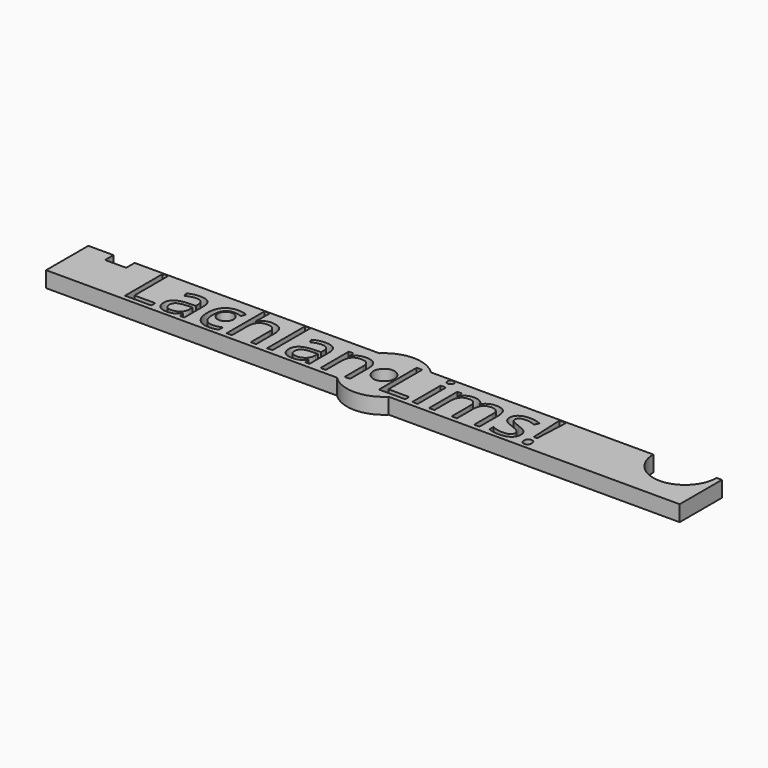
from build123d import *

# Parameters (mm, degrees)
F0_R     = 2
F0_R_2   = 1.5
F1_DEPTH = 3
F2_W     = 1.013671875
F2_H     = 6.689453125
F2_H_2   = 9
F3_DEPTH = 25
F4_R     = 0.5


with BuildPart() as f1:
    # F0 (on Top) → F1 (new body)
    with BuildSketch(Plane.XY):
        with BuildLine():
            ThreePointArc((7, 0), (6.4534043883, -2.7117470016), (4.8989794856, -5))
            Line((4.8989794856, -5), (60, -5))
            Line((60, -5), (60, 5))
            Line((60, 5), (59, 5))
            ThreePointArc((59, 5), (53, -1), (47, 5))
            Line((47, 5), (4.8989794856, 5))
            ThreePointArc((4.8989794856, 5), (6.4534043883, 2.7117470016), (7, 0))
        make_face()
        with BuildLine():
            ThreePointArc((-4.8989794856, 5), (-7, 0), (-4.8989794856, -5))
            Line((-4.8989794856, -5), (4.8989794856, -5))
            ThreePointArc((4.8989794856, -5), (6.4534043883, -2.7117470016), (7, 0))
            ThreePointArc((7, 0), (6.4534043883, 2.7117470016), (4.8989794856, 5))
            Line((4.8989794856, 5), (-4.8989794856, 5))
        make_face()
        Circle(F0_R, mode=Mode.SUBTRACT)
        with BuildLine():
            ThreePointArc((4.8989794856, 5), (0, 7), (-4.8989794856, 5))
            Line((-4.8989794856, 5), (4.8989794856, 5))
        make_face()
        with BuildLine():
            Line((4.8989794856, -5), (-4.8989794856, -5))
            ThreePointArc((-4.8989794856, -5), (0, -7), (4.8989794856, -5))
        make_face()
        with BuildLine():
            Line((-55.2295781672, 5), (-60, 5))
            Line((-60, 5), (-60, -5))
            Line((-60, -5), (-4.8989794856, -5))
            ThreePointArc((-4.8989794856, -5), (-7, 0), (-4.8989794856, 5))
            Line((-4.8989794856, 5), (-51.2295781672, 5))
            Line((-51.2295781672, 5), (-51.2295781672, 3))
            Line((-51.2295781672, 3), (-55.2295781672, 3))
            Line((-55.2295781672, 3), (-55.2295781672, 5))
        make_face()
        with Locations((-30, 0)):
            Circle(F0_R_2, mode=Mode.SUBTRACT)
    extrude(amount=F1_DEPTH)

    # F2 (on face) → F3 (cut)
    with BuildSketch(Plane.XY.offset(3)):
        with BuildLine():
            ThreePointArc((9.7680875056, 4.4622902374), (9.1807171209, 4.9119499266), (8.5750239102, 4.4872929597))
            add(Edge.make_bspline(
                [(8.572265625, 4.401953125), (8.572265625, 4.4461203972), (8.5750239102, 4.4872929597)],
                knots=[0, 0, 0, 0.1270429402, 0.1270429402, 0.1270429402], degree=2))
            add(Edge.make_bspline(
                [(8.7431640625, 3.8921875), (8.572265625, 4.06015625), (8.572265625, 4.401953125)],
                knots=[0, 0, 0, 1, 1, 1], degree=2))
            add(Edge.make_bspline(
                [(9.171875, 3.72421875), (8.9140625, 3.72421875), (8.7431640625, 3.8921875)],
                knots=[0, 0, 0, 1, 1, 1], degree=2))
            add(Edge.make_bspline(
                [(9.5927734375, 3.8921875), (9.416015625, 3.72421875), (9.171875, 3.72421875)],
                knots=[0, 0, 0, 1, 1, 1], degree=2))
            add(Edge.make_bspline(
                [(9.76953125, 4.401953125), (9.76953125, 4.06015625), (9.5927734375, 3.8921875)],
                knots=[0, 0, 0, 1, 1, 1], degree=2))
            add(Edge.make_bspline(
                [(9.7680875056, 4.4622902374), (9.76953125, 4.4328435534), (9.76953125, 4.401953125)],
                knots=[0.9096234324, 0.9096234324, 0.9096234324, 1, 1, 1], degree=2))
        make_face()
        with Locations((9.1650390625, -0.7552734375)):
            Rectangle(F2_W, F2_H)
        with BuildLine():
            Line((20.34765625, 0.2515625), (20.34765625, -4.1))
            Line((20.34765625, -4.1), (21.359375, -4.1))
            Line((21.359375, -4.1), (21.359375, 0.26328125))
            add(Edge.make_bspline(
                [(20.794921875, 2.1294921875), (21.359375, 1.546484375), (21.359375, 0.26328125)],
                knots=[0, 0, 0, 1, 1, 1], degree=2))
            add(Edge.make_bspline(
                [(19.095703125, 2.7125), (20.23046875, 2.7125), (20.794921875, 2.1294921875)],
                knots=[0, 0, 0, 1, 1, 1], degree=2))
            add(Edge.make_bspline(
                [(17.8017578125, 2.4068359375), (18.369140625, 2.7125), (19.095703125, 2.7125)],
                knots=[0, 0, 0, 1, 1, 1], degree=2))
            add(Edge.make_bspline(
                [(16.935546875, 1.57578125), (17.234375, 2.101171875), (17.8017578125, 2.4068359375)],
                knots=[0, 0, 0, 1, 1, 1], degree=2))
            Line((16.935546875, 1.57578125), (16.88671875, 1.57578125))
            add(Edge.make_bspline(
                [(14.8359375, 2.7125), (16.404296875, 2.7125), (16.88671875, 1.57578125)],
                knots=[0, 0, 0, 1, 1, 1], degree=2))
            add(Edge.make_bspline(
                [(13.6669921875, 2.437109375), (14.189453125, 2.7125), (14.8359375, 2.7125)],
                knots=[0, 0, 0, 1, 1, 1], degree=2))
            add(Edge.make_bspline(
                [(12.857421875, 1.6734375), (13.14453125, 2.16171875), (13.6669921875, 2.437109375)],
                knots=[0, 0, 0, 1, 1, 1], degree=2))
            Line((12.857421875, 1.6734375), (12.80859375, 1.6734375))
            Line((12.80859375, 1.6734375), (12.64453125, 2.589453125))
            Line((12.64453125, 2.589453125), (11.8203125, 2.589453125))
            Line((11.8203125, 2.589453125), (11.8203125, -4.1))
            Line((11.8203125, -4.1), (12.833984375, -4.1))
            Line((12.833984375, -4.1), (12.833984375, -0.590234375))
            add(Edge.make_bspline(
                [(13.2763671875, 1.280859375), (12.833984375, 0.710546875), (12.833984375, -0.590234375)],
                knots=[0, 0, 0, 1, 1, 1], degree=2))
            add(Edge.make_bspline(
                [(14.669921875, 1.851171875), (13.71875, 1.851171875), (13.2763671875, 1.280859375)],
                knots=[0, 0, 0, 1, 1, 1], degree=2))
            add(Edge.make_bspline(
                [(15.73828125, 1.4517578125), (15.396484375, 1.851171875), (14.669921875, 1.851171875)],
                knots=[0, 0, 0, 1, 1, 1], degree=2))
            add(Edge.make_bspline(
                [(16.080078125, 0.2515625), (16.080078125, 1.05234375), (15.73828125, 1.4517578125)],
                knots=[0, 0, 0, 1, 1, 1], degree=2))
            Line((16.080078125, 0.2515625), (16.080078125, -4.1))
            Line((16.080078125, -4.1), (17.09375, -4.1))
            Line((17.09375, -4.1), (17.09375, -0.363671875))
            add(Edge.make_bspline(
                [(17.5458984375, 1.308203125), (17.09375, 0.765234375), (17.09375, -0.363671875)],
                knots=[0, 0, 0, 1, 1, 1], degree=2))
            add(Edge.make_bspline(
                [(18.943359375, 1.851171875), (17.998046875, 1.851171875), (17.5458984375, 1.308203125)],
                knots=[0, 0, 0, 1, 1, 1], degree=2))
            add(Edge.make_bspline(
                [(20.005859375, 1.4517578125), (19.6640625, 1.851171875), (18.943359375, 1.851171875)],
                knots=[0, 0, 0, 1, 1, 1], degree=2))
            add(Edge.make_bspline(
                [(20.34765625, 0.2515625), (20.34765625, 1.05234375), (20.005859375, 1.4517578125)],
                knots=[0, 0, 0, 1, 1, 1], degree=2))
        make_face()
        with BuildLine():
            add(Edge.make_bspline(
                [(27.76171875, -2.27578125), (27.76171875, -3.209375), (27.06640625, -3.7162109375)],
                knots=[0, 0, 0, 1, 1, 1], degree=2))
            add(Edge.make_bspline(
                [(27.34375, -1.1703125), (27.76171875, -1.609765625), (27.76171875, -2.27578125)],
                knots=[0, 0, 0, 1, 1, 1], degree=2))
            add(Edge.make_bspline(
                [(25.736328125, -0.297265625), (26.92578125, -0.730859375), (27.34375, -1.1703125)],
                knots=[0, 0, 0, 1, 1, 1], degree=2))
            add(Edge.make_bspline(
                [(24.564453125, 0.1978515625), (24.869140625, 0.026953125), (25.736328125, -0.297265625)],
                knots=[0, 0, 0, 1, 1, 1], degree=2))
            add(Edge.make_bspline(
                [(24.1220703125, 0.5572265625), (24.259765625, 0.36875), (24.564453125, 0.1978515625)],
                knots=[0, 0, 0, 1, 1, 1], degree=2))
            add(Edge.make_bspline(
                [(23.984375, 1.015234375), (23.984375, 0.745703125), (24.1220703125, 0.5572265625)],
                knots=[0, 0, 0, 1, 1, 1], degree=2))
            add(Edge.make_bspline(
                [(24.3505859375, 1.6373046875), (23.984375, 1.41171875), (23.984375, 1.015234375)],
                knots=[0, 0, 0, 1, 1, 1], degree=2))
            add(Edge.make_bspline(
                [(25.4375, 1.862890625), (24.716796875, 1.862890625), (24.3505859375, 1.6373046875)],
                knots=[0, 0, 0, 1, 1, 1], degree=2))
            add(Edge.make_bspline(
                [(27.26171875, 1.448828125), (26.255859375, 1.862890625), (25.4375, 1.862890625)],
                knots=[0, 0, 0, 1, 1, 1], degree=2))
            Line((27.26171875, 1.448828125), (27.623046875, 2.273046875))
            add(Edge.make_bspline(
                [(25.509765625, 2.7125), (26.58984375, 2.7125), (27.623046875, 2.273046875)],
                knots=[0, 0, 0, 1, 1, 1], degree=2))
            add(Edge.make_bspline(
                [(23.685546875, 2.2388671875), (24.3515625, 2.7125), (25.509765625, 2.7125)],
                knots=[0, 0, 0, 1, 1, 1], degree=2))
            add(Edge.make_bspline(
                [(23.01953125, 0.946875), (23.01953125, 1.765234375), (23.685546875, 2.2388671875)],
                knots=[0, 0, 0, 1, 1, 1], degree=2))
            add(Edge.make_bspline(
                [(23.2119140625, 0.1607421875), (23.01953125, 0.48984375), (23.01953125, 0.946875)],
                knots=[0, 0, 0, 1, 1, 1], degree=2))
            add(Edge.make_bspline(
                [(23.7978515625, -0.428125), (23.404296875, -0.168359375), (23.2119140625, 0.1607421875)],
                knots=[0, 0, 0, 1, 1, 1], degree=2))
            add(Edge.make_bspline(
                [(25.125, -1.035546875), (24.19140625, -0.687890625), (23.7978515625, -0.428125)],
                knots=[0, 0, 0, 1, 1, 1], degree=2))
            add(Edge.make_bspline(
                [(26.447265625, -1.691796875), (26.109375, -1.414453125), (25.125, -1.035546875)],
                knots=[0, 0, 0, 1, 1, 1], degree=2))
            add(Edge.make_bspline(
                [(26.78515625, -2.359765625), (26.78515625, -1.969140625), (26.447265625, -1.691796875)],
                knots=[0, 0, 0, 1, 1, 1], degree=2))
            add(Edge.make_bspline(
                [(26.3583984375, -3.1322265625), (26.78515625, -2.879296875), (26.78515625, -2.359765625)],
                knots=[0, 0, 0, 1, 1, 1], degree=2))
            add(Edge.make_bspline(
                [(25.138671875, -3.38515625), (25.931640625, -3.38515625), (26.3583984375, -3.1322265625)],
                knots=[0, 0, 0, 1, 1, 1], degree=2))
            add(Edge.make_bspline(
                [(24.0732421875, -3.2455078125), (24.625, -3.38515625), (25.138671875, -3.38515625)],
                knots=[0, 0, 0, 1, 1, 1], degree=2))
            add(Edge.make_bspline(
                [(23.0390625, -2.86171875), (23.521484375, -3.105859375), (24.0732421875, -3.2455078125)],
                knots=[0, 0, 0, 1, 1, 1], degree=2))
            Line((23.0390625, -2.86171875), (23.0390625, -3.801171875))
            add(Edge.make_bspline(
                [(25.11328125, -4.223046875), (23.783203125, -4.223046875), (23.0390625, -3.801171875)],
                knots=[0, 0, 0, 1, 1, 1], degree=2))
            add(Edge.make_bspline(
                [(27.06640625, -3.7162109375), (26.37109375, -4.223046875), (25.11328125, -4.223046875)],
                knots=[0, 0, 0, 1, 1, 1], degree=2))
        make_face()
        Polygon((29.685546875, -1.641015625), (30.326171875, -1.641015625), (30.63671875, 4.823828125), (29.373046875, 4.823828125), align=None)
        with BuildLine():
            add(Edge.make_bspline(
                [(29.263671875, -3.453515625), (29.263671875, -2.6234375), (29.99609375, -2.6234375)],
                knots=[0, 0, 0, 1, 1, 1], degree=2))
            add(Edge.make_bspline(
                [(29.4716796875, -4.0853515625), (29.263671875, -3.89296875), (29.263671875, -3.453515625)],
                knots=[0, 0, 0, 1, 1, 1], degree=2))
            add(Edge.make_bspline(
                [(29.99609375, -4.277734375), (29.6796875, -4.277734375), (29.4716796875, -4.0853515625)],
                knots=[0, 0, 0, 1, 1, 1], degree=2))
            add(Edge.make_bspline(
                [(30.5390625, -4.0609375), (30.34375, -4.277734375), (29.99609375, -4.277734375)],
                knots=[0, 0, 0, 1, 1, 1], degree=2))
            add(Edge.make_bspline(
                [(30.734375, -3.453515625), (30.734375, -3.844140625), (30.5390625, -4.0609375)],
                knots=[0, 0, 0, 1, 1, 1], degree=2))
            add(Edge.make_bspline(
                [(30.5419921875, -2.836328125), (30.734375, -3.04921875), (30.734375, -3.453515625)],
                knots=[0, 0, 0, 1, 1, 1], degree=2))
            add(Edge.make_bspline(
                [(29.99609375, -2.6234375), (30.349609375, -2.6234375), (30.5419921875, -2.836328125)],
                knots=[0, 0, 0, 1, 1, 1], degree=2))
        make_face()
        Polygon((2.322265625, 4.823828125), (2.322265625, -4.1), (7.296875, -4.1), (7.296875, -3.160546875), (3.359375, -3.160546875), (3.359375, 4.823828125), align=None)
        with BuildLine():
            Line((-4.171875, 0.228125), (-4.171875, -4.1))
            Line((-4.171875, -4.1), (-3.158203125, -4.1))
            Line((-3.158203125, -4.1), (-3.158203125, 0.26328125))
            add(Edge.make_bspline(
                [(-3.7685546875, 2.1294921875), (-3.158203125, 1.546484375), (-3.158203125, 0.26328125)],
                knots=[0, 0, 0, 1, 1, 1], degree=2))
            add(Edge.make_bspline(
                [(-5.587890625, 2.7125), (-4.37890625, 2.7125), (-3.7685546875, 2.1294921875)],
                knots=[0, 0, 0, 1, 1, 1], degree=2))
            add(Edge.make_bspline(
                [(-6.8388671875, 2.4400390625), (-6.27734375, 2.7125), (-5.587890625, 2.7125)],
                knots=[0, 0, 0, 1, 1, 1], degree=2))
            add(Edge.make_bspline(
                [(-7.712890625, 1.6734375), (-7.400390625, 2.167578125), (-6.8388671875, 2.4400390625)],
                knots=[0, 0, 0, 1, 1, 1], degree=2))
            Line((-7.712890625, 1.6734375), (-7.76171875, 1.6734375))
            Line((-7.76171875, 1.6734375), (-7.92578125, 2.589453125))
            Line((-7.92578125, 2.589453125), (-8.75, 2.589453125))
            Line((-8.75, 2.589453125), (-8.75, -4.1))
            Line((-8.75, -4.1), (-7.736328125, -4.1))
            Line((-7.736328125, -4.1), (-7.736328125, -0.590234375))
            add(Edge.make_bspline(
                [(-7.248046875, 1.2837890625), (-7.736328125, 0.71640625), (-7.736328125, -0.590234375)],
                knots=[0, 0, 0, 1, 1, 1], degree=2))
            add(Edge.make_bspline(
                [(-5.7109375, 1.851171875), (-6.759765625, 1.851171875), (-7.248046875, 1.2837890625)],
                knots=[0, 0, 0, 1, 1, 1], degree=2))
            add(Edge.make_bspline(
                [(-4.5439453125, 1.4478515625), (-4.916015625, 1.851171875), (-5.7109375, 1.851171875)],
                knots=[0, 0, 0, 1, 1, 1], degree=2))
            add(Edge.make_bspline(
                [(-4.171875, 0.228125), (-4.171875, 1.04453125), (-4.5439453125, 1.4478515625)],
                knots=[0, 0, 0, 1, 1, 1], degree=2))
        make_face()
        with BuildLine():
            Line((-11.7890625, -3.146875), (-11.587890625, -4.1))
            Line((-11.587890625, -4.1), (-10.8359375, -4.1))
            Line((-10.8359375, -4.1), (-10.8359375, 0.46640625))
            add(Edge.make_bspline(
                [(-11.4130859375, 2.1685546875), (-10.8359375, 1.63828125), (-10.8359375, 0.46640625)],
                knots=[0, 0, 0, 1, 1, 1], degree=2))
            add(Edge.make_bspline(
                [(-13.185546875, 2.698828125), (-11.990234375, 2.698828125), (-11.4130859375, 2.1685546875)],
                knots=[0, 0, 0, 1, 1, 1], degree=2))
            add(Edge.make_bspline(
                [(-14.3681640625, 2.546484375), (-13.779296875, 2.698828125), (-13.185546875, 2.698828125)],
                knots=[0, 0, 0, 1, 1, 1], degree=2))
            add(Edge.make_bspline(
                [(-15.451171875, 2.1265625), (-14.95703125, 2.394140625), (-14.3681640625, 2.546484375)],
                knots=[0, 0, 0, 1, 1, 1], degree=2))
            Line((-15.451171875, 2.1265625), (-15.138671875, 1.351171875))
            add(Edge.make_bspline(
                [(-13.248046875, 1.862890625), (-14.083984375, 1.862890625), (-15.138671875, 1.351171875)],
                knots=[0, 0, 0, 1, 1, 1], degree=2))
            add(Edge.make_bspline(
                [(-12.1640625, 1.487890625), (-12.501953125, 1.862890625), (-13.248046875, 1.862890625)],
                knots=[0, 0, 0, 1, 1, 1], degree=2))
            add(Edge.make_bspline(
                [(-11.826171875, 0.32578125), (-11.826171875, 1.112890625), (-12.1640625, 1.487890625)],
                knots=[0, 0, 0, 1, 1, 1], degree=2))
            Line((-11.826171875, 0.32578125), (-11.826171875, -0.090234375))
            Line((-11.826171875, -0.090234375), (-12.9609375, -0.12734375))
            add(Edge.make_bspline(
                [(-16.201171875, -2.250390625), (-16.201171875, -0.225), (-12.9609375, -0.12734375)],
                knots=[0, 0, 0, 1, 1, 1], degree=2))
            add(Edge.make_bspline(
                [(-15.63671875, -3.709375), (-16.201171875, -3.195703125), (-16.201171875, -2.250390625)],
                knots=[0, 0, 0, 1, 1, 1], degree=2))
            add(Edge.make_bspline(
                [(-14.078125, -4.223046875), (-15.072265625, -4.223046875), (-15.63671875, -3.709375)],
                knots=[0, 0, 0, 1, 1, 1], degree=2))
            add(Edge.make_bspline(
                [(-12.8349609375, -3.9994140625), (-13.33203125, -4.223046875), (-14.078125, -4.223046875)],
                knots=[0, 0, 0, 1, 1, 1], degree=2))
            add(Edge.make_bspline(
                [(-11.837890625, -3.146875), (-12.337890625, -3.77578125), (-12.8349609375, -3.9994140625)],
                knots=[0, 0, 0, 1, 1, 1], degree=2))
            Line((-11.837890625, -3.146875), (-11.7890625, -3.146875))
        make_face()
        with BuildLine():
            add(Edge.make_bspline(
                [(-13.876953125, -3.38515625), (-12.9296875, -3.38515625), (-12.3896484375, -2.8666015625)],
                knots=[0, 0, 0, 1, 1, 1], degree=2))
            add(Edge.make_bspline(
                [(-14.806640625, -3.0990234375), (-14.474609375, -3.38515625), (-13.876953125, -3.38515625)],
                knots=[0, 0, 0, 1, 1, 1], degree=2))
            add(Edge.make_bspline(
                [(-15.138671875, -2.262109375), (-15.138671875, -2.812890625), (-14.806640625, -3.0990234375)],
                knots=[0, 0, 0, 1, 1, 1], degree=2))
            add(Edge.make_bspline(
                [(-14.60546875, -1.2279296875), (-15.138671875, -1.5609375), (-15.138671875, -2.262109375)],
                knots=[0, 0, 0, 1, 1, 1], degree=2))
            add(Edge.make_bspline(
                [(-12.86328125, -0.851953125), (-14.072265625, -0.894921875), (-14.60546875, -1.2279296875)],
                knots=[0, 0, 0, 1, 1, 1], degree=2))
            Line((-12.86328125, -0.851953125), (-11.849609375, -0.8109375))
            Line((-11.849609375, -0.8109375), (-11.849609375, -1.414453125))
            add(Edge.make_bspline(
                [(-12.3896484375, -2.8666015625), (-11.849609375, -2.348046875), (-11.849609375, -1.414453125)],
                knots=[0, 0, 0, 1, 1, 1], degree=2))
        make_face(mode=Mode.SUBTRACT)
        with Locations((-18.3564453125, 0.4)):
            Rectangle(F2_W, F2_H_2)
        with BuildLine():
            Line((-25.521484375, 4.9), (-26.53515625, 4.9))
            Line((-26.53515625, 4.9), (-26.53515625, -4.1))
            Line((-26.53515625, -4.1), (-25.521484375, -4.1))
            Line((-25.521484375, -4.1), (-25.521484375, -0.601953125))
            add(Edge.make_bspline(
                [(-25.0361328125, 1.276953125), (-25.521484375, 0.702734375), (-25.521484375, -0.601953125)],
                knots=[0, 0, 0, 1, 1, 1], degree=2))
            add(Edge.make_bspline(
                [(-23.49609375, 1.851171875), (-24.55078125, 1.851171875), (-25.0361328125, 1.276953125)],
                knots=[0, 0, 0, 1, 1, 1], degree=2))
            add(Edge.make_bspline(
                [(-22.3291015625, 1.4478515625), (-22.701171875, 1.851171875), (-23.49609375, 1.851171875)],
                knots=[0, 0, 0, 1, 1, 1], degree=2))
            add(Edge.make_bspline(
                [(-21.95703125, 0.228125), (-21.95703125, 1.04453125), (-22.3291015625, 1.4478515625)],
                knots=[0, 0, 0, 1, 1, 1], degree=2))
            Line((-21.95703125, 0.228125), (-21.95703125, -4.1))
            Line((-21.95703125, -4.1), (-20.943359375, -4.1))
            Line((-20.943359375, -4.1), (-20.943359375, 0.26328125))
            add(Edge.make_bspline(
                [(-21.5576171875, 2.1158203125), (-20.943359375, 1.5328125), (-20.943359375, 0.26328125)],
                knots=[0, 0, 0, 1, 1, 1], degree=2))
            add(Edge.make_bspline(
                [(-23.3984375, 2.698828125), (-22.171875, 2.698828125), (-21.5576171875, 2.1158203125)],
                knots=[0, 0, 0, 1, 1, 1], degree=2))
            add(Edge.make_bspline(
                [(-24.658203125, 2.421484375), (-24.10546875, 2.698828125), (-23.3984375, 2.698828125)],
                knots=[0, 0, 0, 1, 1, 1], degree=2))
            add(Edge.make_bspline(
                [(-25.509765625, 1.66171875), (-25.2109375, 2.144140625), (-24.658203125, 2.421484375)],
                knots=[0, 0, 0, 1, 1, 1], degree=2))
            Line((-25.509765625, 1.66171875), (-25.5703125, 1.66171875))
            add(Edge.make_bspline(
                [(-25.521484375, 2.523046875), (-25.521484375, 2.003515625), (-25.5703125, 1.66171875)],
                knots=[0, 0, 0, 1, 1, 1], degree=2))
            Line((-25.521484375, 2.523046875), (-25.521484375, 4.9))
        make_face()
        with BuildLine():
            add(Edge.make_bspline(
                [(-29.8125, -4.223046875), (-31.265625, -4.223046875), (-32.0625, -3.328515625)],
                knots=[0, 0, 0, 1, 1, 1], degree=2))
            add(Edge.make_bspline(
                [(-28.123046875, -3.8734375), (-28.79296875, -4.223046875), (-29.8125, -4.223046875)],
                knots=[0, 0, 0, 1, 1, 1], degree=2))
            Line((-28.123046875, -3.8734375), (-28.123046875, -2.976953125))
            add(Edge.make_bspline(
                [(-29.837890625, -3.336328125), (-29.001953125, -3.336328125), (-28.123046875, -2.976953125)],
                knots=[0, 0, 0, 1, 1, 1], degree=2))
            add(Edge.make_bspline(
                [(-31.3115234375, -2.6771484375), (-30.814453125, -3.336328125), (-29.837890625, -3.336328125)],
                knots=[0, 0, 0, 1, 1, 1], degree=2))
            add(Edge.make_bspline(
                [(-31.80859375, -0.785546875), (-31.80859375, -2.01796875), (-31.3115234375, -2.6771484375)],
                knots=[0, 0, 0, 1, 1, 1], degree=2))
            add(Edge.make_bspline(
                [(-29.76953125, 1.8140625), (-31.80859375, 1.8140625), (-31.80859375, -0.785546875)],
                knots=[0, 0, 0, 1, 1, 1], degree=2))
            add(Edge.make_bspline(
                [(-29.068359375, 1.726171875), (-29.46484375, 1.8140625), (-29.76953125, 1.8140625)],
                knots=[0, 0, 0, 1, 1, 1], degree=2))
            add(Edge.make_bspline(
                [(-28.3359375, 1.503515625), (-28.671875, 1.63828125), (-29.068359375, 1.726171875)],
                knots=[0, 0, 0, 1, 1, 1], degree=2))
            Line((-28.3359375, 1.503515625), (-28.025390625, 2.362890625))
            add(Edge.make_bspline(
                [(-28.78125, 2.6080078125), (-28.298828125, 2.503515625), (-28.025390625, 2.362890625)],
                knots=[0, 0, 0, 1, 1, 1], degree=2))
            add(Edge.make_bspline(
                [(-29.74609375, 2.7125), (-29.263671875, 2.7125), (-28.78125, 2.6080078125)],
                knots=[0, 0, 0, 1, 1, 1], degree=2))
            add(Edge.make_bspline(
                [(-32.0498046875, 1.796484375), (-31.240234375, 2.7125), (-29.74609375, 2.7125)],
                knots=[0, 0, 0, 1, 1, 1], degree=2))
            add(Edge.make_bspline(
                [(-32.859375, -0.797265625), (-32.859375, 0.88046875), (-32.0498046875, 1.796484375)],
                knots=[0, 0, 0, 1, 1, 1], degree=2))
            add(Edge.make_bspline(
                [(-32.0625, -3.328515625), (-32.859375, -2.433984375), (-32.859375, -0.797265625)],
                knots=[0, 0, 0, 1, 1, 1], degree=2))
        make_face()
        with BuildLine():
            Line((-35.525390625, -3.146875), (-35.32421875, -4.1))
            Line((-35.32421875, -4.1), (-34.572265625, -4.1))
            Line((-34.572265625, -4.1), (-34.572265625, 0.46640625))
            add(Edge.make_bspline(
                [(-35.1494140625, 2.1685546875), (-34.572265625, 1.63828125), (-34.572265625, 0.46640625)],
                knots=[0, 0, 0, 1, 1, 1], degree=2))
            add(Edge.make_bspline(
                [(-36.921875, 2.698828125), (-35.7265625, 2.698828125), (-35.1494140625, 2.1685546875)],
                knots=[0, 0, 0, 1, 1, 1], degree=2))
            add(Edge.make_bspline(
                [(-38.1044921875, 2.546484375), (-37.515625, 2.698828125), (-36.921875, 2.698828125)],
                knots=[0, 0, 0, 1, 1, 1], degree=2))
            add(Edge.make_bspline(
                [(-39.1875, 2.1265625), (-38.693359375, 2.394140625), (-38.1044921875, 2.546484375)],
                knots=[0, 0, 0, 1, 1, 1], degree=2))
            Line((-39.1875, 2.1265625), (-38.875, 1.351171875))
            add(Edge.make_bspline(
                [(-36.984375, 1.862890625), (-37.8203125, 1.862890625), (-38.875, 1.351171875)],
                knots=[0, 0, 0, 1, 1, 1], degree=2))
            add(Edge.make_bspline(
                [(-35.900390625, 1.487890625), (-36.23828125, 1.862890625), (-36.984375, 1.862890625)],
                knots=[0, 0, 0, 1, 1, 1], degree=2))
            add(Edge.make_bspline(
                [(-35.5625, 0.32578125), (-35.5625, 1.112890625), (-35.900390625, 1.487890625)],
                knots=[0, 0, 0, 1, 1, 1], degree=2))
            Line((-35.5625, 0.32578125), (-35.5625, -0.090234375))
            Line((-35.5625, -0.090234375), (-36.697265625, -0.12734375))
            add(Edge.make_bspline(
                [(-39.9375, -2.250390625), (-39.9375, -0.225), (-36.697265625, -0.12734375)],
                knots=[0, 0, 0, 1, 1, 1], degree=2))
            add(Edge.make_bspline(
                [(-39.373046875, -3.709375), (-39.9375, -3.195703125), (-39.9375, -2.250390625)],
                knots=[0, 0, 0, 1, 1, 1], degree=2))
            add(Edge.make_bspline(
                [(-37.814453125, -4.223046875), (-38.80859375, -4.223046875), (-39.373046875, -3.709375)],
                knots=[0, 0, 0, 1, 1, 1], degree=2))
            add(Edge.make_bspline(
                [(-36.5712890625, -3.9994140625), (-37.068359375, -4.223046875), (-37.814453125, -4.223046875)],
                knots=[0, 0, 0, 1, 1, 1], degree=2))
            add(Edge.make_bspline(
                [(-35.57421875, -3.146875), (-36.07421875, -3.77578125), (-36.5712890625, -3.9994140625)],
                knots=[0, 0, 0, 1, 1, 1], degree=2))
            Line((-35.57421875, -3.146875), (-35.525390625, -3.146875))
        make_face()
        with BuildLine():
            add(Edge.make_bspline(
                [(-37.61328125, -3.38515625), (-36.666015625, -3.38515625), (-36.1259765625, -2.8666015625)],
                knots=[0, 0, 0, 1, 1, 1], degree=2))
            add(Edge.make_bspline(
                [(-38.54296875, -3.0990234375), (-38.2109375, -3.38515625), (-37.61328125, -3.38515625)],
                knots=[0, 0, 0, 1, 1, 1], degree=2))
            add(Edge.make_bspline(
                [(-38.875, -2.262109375), (-38.875, -2.812890625), (-38.54296875, -3.0990234375)],
                knots=[0, 0, 0, 1, 1, 1], degree=2))
            add(Edge.make_bspline(
                [(-38.341796875, -1.2279296875), (-38.875, -1.5609375), (-38.875, -2.262109375)],
                knots=[0, 0, 0, 1, 1, 1], degree=2))
            add(Edge.make_bspline(
                [(-36.599609375, -0.851953125), (-37.80859375, -0.894921875), (-38.341796875, -1.2279296875)],
                knots=[0, 0, 0, 1, 1, 1], degree=2))
            Line((-36.599609375, -0.851953125), (-35.5859375, -0.8109375))
            Line((-35.5859375, -0.8109375), (-35.5859375, -1.414453125))
            add(Edge.make_bspline(
                [(-36.1259765625, -2.8666015625), (-35.5859375, -2.348046875), (-35.5859375, -1.414453125)],
                knots=[0, 0, 0, 1, 1, 1], degree=2))
        make_face(mode=Mode.SUBTRACT)
        Polygon((-45.7734375, 4.823828125), (-45.7734375, -4.1), (-40.798828125, -4.1), (-40.798828125, -3.160546875), (-44.736328125, -3.160546875), (-44.736328125, 4.823828125), align=None)
    extrude(amount=-F3_DEPTH, mode=Mode.SUBTRACT)

    # F4
    f4_edges = [f1.edges().sort_by_distance(p)[0] for p in [
        (8.575024, 4.487293, 1.5),
        (9.768088, 4.46229, 1.5),
    ]]
    fillet(f4_edges, radius=F4_R)


solid = f1.part
